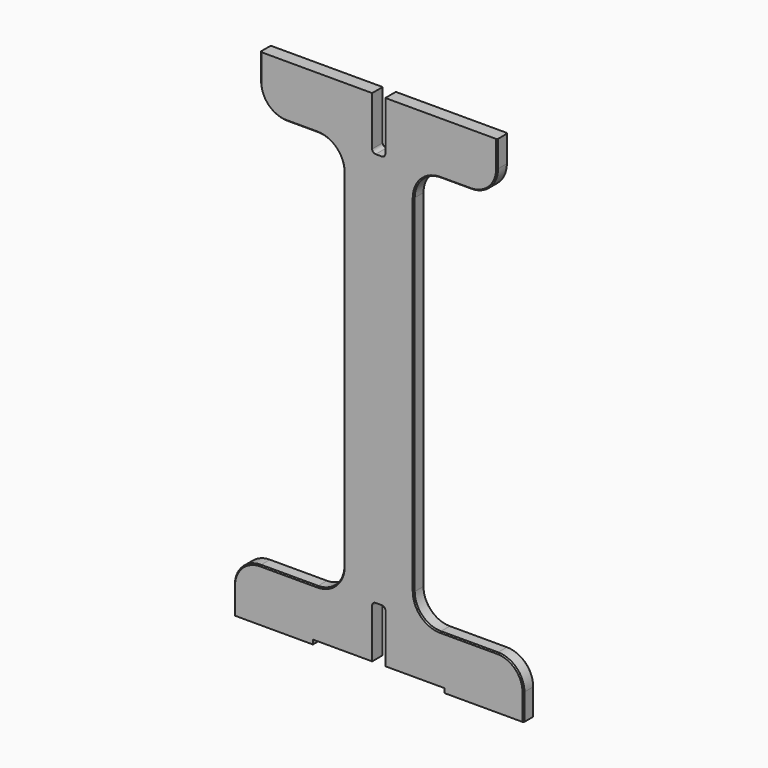
from build123d import *

# Parameters (mm, degrees)
F1_DEPTH = 19.05
F2_R     = 38.1
F3_R     = 5.08
F4_R     = 5.08
F5_SIZE  = 1.5875


with BuildPart() as f1:
    # F0 (on Front) → F1 (new body)
    with BuildSketch(Plane.XZ):
        Polygon((50.8, -288.925), (50.8, 288.925), (171.45, 288.925), (171.45, 365.125), (9.525, 365.125), (9.525, 288.925), (-9.525, 288.925), (-9.525, 365.125), (-171.45, 365.125), (-171.45, 288.925), (-50.8, 288.925), (-50.8, -288.925), (-209.55, -288.925), (-209.55, -365.125), (-95.25, -365.125), (-95.25, -358.775), (-9.525, -358.775), (-9.525, -282.575), (9.525, -282.575), (9.525, -358.775), (95.25, -358.775), (95.25, -365.125), (209.55, -365.125), (209.55, -288.925), align=None)
    extrude(amount=F1_DEPTH)

    # F2
    f2_edges = [f1.edges().sort_by_distance(p)[0] for p in [
        (50.8, -9.525, 288.925),
        (-50.8, -9.525, 288.925),
        (171.45, -9.525, 288.925),
        (-171.45, -9.525, 288.925),
        (-209.55, -9.525, -288.925),
        (50.8, -9.525, -288.925),
        (209.55, -9.525, -288.925),
        (-50.8, -9.525, -288.925),
    ]]
    fillet(f2_edges, radius=F2_R)

    # F3
    f3_edges = [f1.edges().sort_by_distance(p)[0] for p in [
        (9.525, -9.525, 288.925),
        (-9.525, -9.525, 288.925),
    ]]
    fillet(f3_edges, radius=F3_R)

    # F4
    f4_edges = [f1.edges().sort_by_distance(p)[0] for p in [
        (9.525, -9.525, -282.575),
        (-9.525, -9.525, -282.575),
    ]]
    fillet(f4_edges, radius=F4_R)

    # F5
    f5_edges = [f1.edges().sort_by_distance(p)[0] for p in [
        (-50.8, -19.05, 0),
        (-50.8, 0, 0),
        (50.8, -19.05, 0),
        (50.8, 0, 0),
    ]]
    chamfer(f5_edges, length=F5_SIZE)


solid = f1.part
